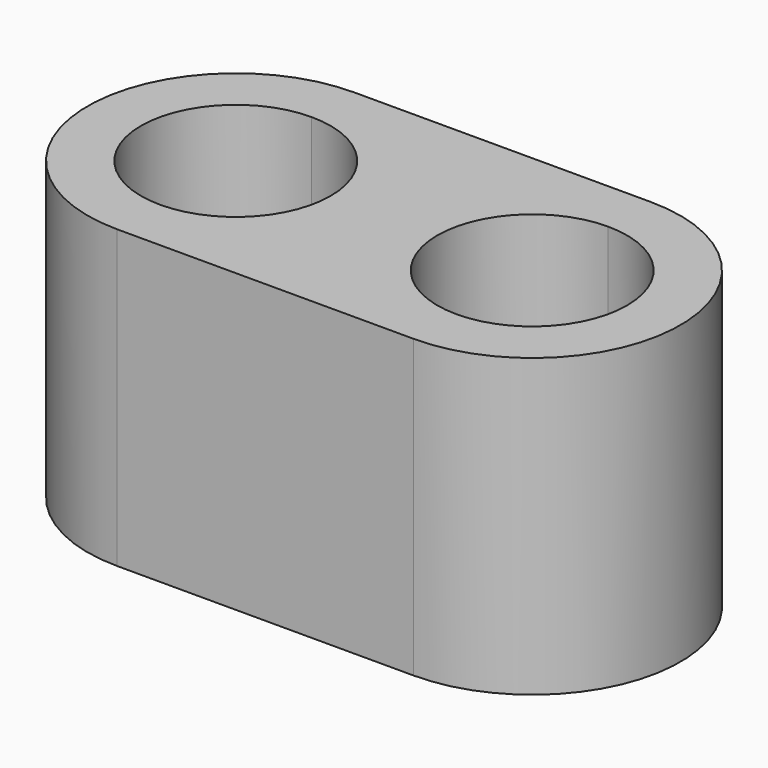
from build123d import *

# Parameters (mm, degrees)
F1_DEPTH = 7.9375


with BuildPart() as f1:
    # F0 (on Top) → F1 (new body)
    with BuildSketch(Plane.XY):
        with BuildLine():
            Line((7.9375, 3.96875), (0, 3.96875))
            Line((0, 3.96875), (0, 2.54))
            ThreePointArc((0, 2.54), (1.796051, 1.796051), (2.54, 0))
            ThreePointArc((2.54, 0), (1.796051, -1.796051), (0, -2.54))
            Line((0, -2.54), (0, -3.96875))
            Line((0, -3.96875), (7.9375, -3.96875))
            Line((7.9375, -3.96875), (7.9375, -2.54))
            ThreePointArc((7.9375, -2.54), (5.3975, 0), (7.9375, 2.54))
            Line((7.9375, 2.54), (7.9375, 3.96875))
        make_face()
        with BuildLine():
            Line((0, 2.54), (0, 3.96875))
            ThreePointArc((0, 3.96875), (-3.96875, 0), (0, -3.96875))
            Line((0, -3.96875), (0, -2.54))
            ThreePointArc((0, -2.54), (-2.54, 0), (0, 2.54))
        make_face()
        with BuildLine():
            ThreePointArc((7.9375, -3.96875), (11.90625, 0), (7.9375, 3.96875))
            Line((7.9375, 3.96875), (7.9375, 2.54))
            ThreePointArc((7.9375, 2.54), (9.733551, 1.796051), (10.4775, 0))
            ThreePointArc((10.4775, 0), (9.733551, -1.796051), (7.9375, -2.54))
            Line((7.9375, -2.54), (7.9375, -3.96875))
        make_face()
    extrude(amount=F1_DEPTH)


solid = f1.part
